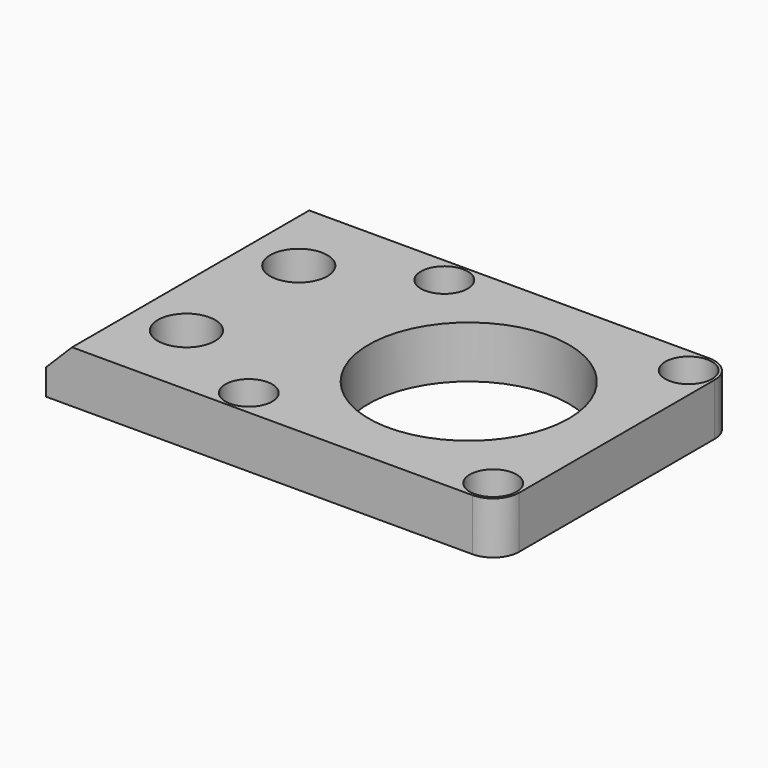
from build123d import *

# Parameters (mm, degrees)
F0_W           = 87
F0_H           = 57
F1_DEPTH       = 10
F2_R           = 19.25
F2_R_2         = 3
F2_R_3         = 3.5
F3_DEPTH       = 10.001
F5_R           = 5.5
F6_DEPTH       = 6
F7_D           = 6
F7_CBORE_D     = 9
F7_CBORE_DEPTH = 5.5
F8_R           = 5
F9_SIZE        = 5


with BuildPart() as f1:
    # F0 (on Top) → F1 (new body)
    with BuildSketch(Plane.XY):
        Rectangle(F0_W, F0_H)
    extrude(amount=F1_DEPTH)

    # F2 (on face) → F3 (cut, through all)
    with BuildSketch(Plane.XY.offset(10)):
        with Locations((15, 0)):
            Circle(F2_R)
        with Locations((-28.5, 13.5)):
            Circle(F2_R_2)
        with Locations((-28.5, -13.5)):
            Circle(F2_R_3)
    extrude(amount=-F3_DEPTH, mode=Mode.SUBTRACT)

    # F5 (on face) → F6 (cut)
    with BuildSketch(Plane.XY.offset(10)):
        with Locations((-28.5, 13.5)):
            Circle(F5_R)
        with Locations((-28.5, -13.5)):
            Circle(F5_R)
    extrude(amount=-F6_DEPTH, mode=Mode.SUBTRACT)

    # F7 (through all)
    with Locations(Plane.XY.offset(10)):
        with Locations((-8.5, 23.5), (38.5, 23.5), (38.5, -23.5), (-8.5, -23.5)):
            CounterBoreHole(F7_D / 2, F7_CBORE_D / 2, F7_CBORE_DEPTH)

    # F8
    f8_edges = [f1.edges().sort_by_distance(p)[0] for p in [
        (43.5, -28.5, 5),
        (43.5, 28.5, 5),
    ]]
    fillet(f8_edges, radius=F8_R)

    # F9
    f9_edges = [f1.edges().sort_by_distance(p)[0] for p in [
        (-43.5, 0, 10),
    ]]
    chamfer(f9_edges, length=F9_SIZE)


solid = f1.part
